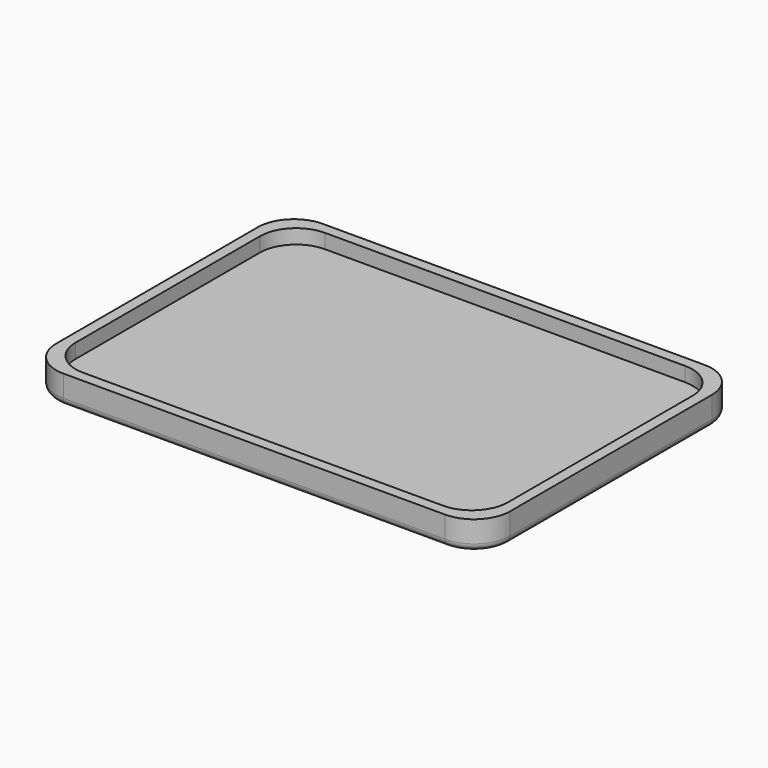
from build123d import *

# Parameters (mm, degrees)
F0_W     = 60
F0_H     = 42
F1_DEPTH = 2
F2_W     = 63
F2_H     = 45
F2_W_2   = 60
F2_H_2   = 42
F3_DEPTH = 4
F4_R     = 5
F5_R     = 1


with BuildPart() as f1:
    # F0 (on Top) → F1 (new body)
    with BuildSketch(Plane.XY):
        with Locations((30, 21)):
            Rectangle(F0_W, F0_H)
    extrude(amount=F1_DEPTH)

    # F2 (on Top) → F3 (join)
    with BuildSketch(Plane.XY):
        with Locations((30, 21)):
            Rectangle(F2_W, F2_H)
        with Locations((30, 21)):
            Rectangle(F2_W_2, F2_H_2, mode=Mode.SUBTRACT)
    extrude(amount=F3_DEPTH)

    # F4
    f4_edges = [f1.edges().sort_by_distance(p)[0] for p in [
        (-1.5, -1.5, 2),
        (61.5, -1.5, 2),
        (-1.5, 43.5, 2),
        (60, 42, 3),
        (61.5, 43.5, 2),
        (60, 0, 3),
        (0, 0, 3),
        (0, 42, 3),
    ]]
    fillet(f4_edges, radius=F4_R)

    # F5
    f5_edges = [f1.edges().sort_by_distance(p)[0] for p in [
        (30, -1.5, 0),
        (60.035534, -0.035534, 0),
        (61.5, 21, 0),
        (60.035534, 42.035534, 0),
        (30, 43.5, 0),
        (-0.035534, 42.035534, 0),
        (-1.5, 21, 0),
        (-0.035534, -0.035534, 0),
    ]]
    fillet(f5_edges, radius=F5_R)


solid = f1.part
